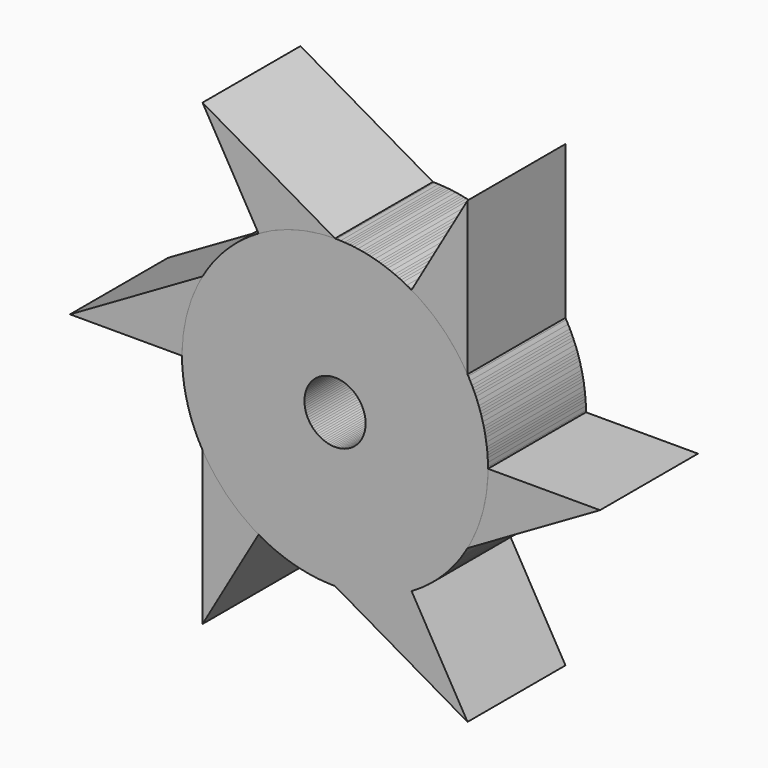
from build123d import *

# Parameters (mm, degrees)
F0_R          = 63.5
F0_R_2        = 12.7
F1_DEPTH      = 25.4
F1_DEPTH_BACK = 25.4
F3_DEPTH      = 25.4
F3_DEPTH_BACK = 25.4
F4_COUNT      = 6


with BuildPart() as f1:
    # F0 (on Front) → F1 (new body, two sides)
    with BuildSketch(Plane.XZ) as f1_sk:
        Circle(F0_R)
        Circle(F0_R_2, mode=Mode.SUBTRACT)
    extrude(amount=F1_DEPTH)
    extrude(f1_sk.sketch, amount=-F1_DEPTH_BACK)

    # F2 (on Front) → F3 (join, two sides)
    with BuildSketch(Plane.XZ) as f3_sk:
        Polygon((109.985226, 0), (63.5, 0), (54.992613, -31.75), align=None)
    extrude(amount=F3_DEPTH)
    extrude(f3_sk.sketch, amount=-F3_DEPTH_BACK)


with BuildPart() as f4_1:
    # F4: instance of F1
    add(f1.part.rotate(Axis((0, -25.4, 0), (0, -1, 0)), 1 * 360 / F4_COUNT))


with BuildPart() as f4_2:
    # F4: instance of F1
    add(f1.part.rotate(Axis((0, -25.4, 0), (0, -1, 0)), 2 * 360 / F4_COUNT))


with BuildPart() as f4_3:
    # F4: instance of F1
    add(f1.part.rotate(Axis((0, -25.4, 0), (0, -1, 0)), 3 * 360 / F4_COUNT))


with BuildPart() as f4_4:
    # F4: instance of F1
    add(f1.part.rotate(Axis((0, -25.4, 0), (0, -1, 0)), 4 * 360 / F4_COUNT))


with BuildPart() as f4_5:
    # F4: instance of F1
    add(f1.part.rotate(Axis((0, -25.4, 0), (0, -1, 0)), 5 * 360 / F4_COUNT))


solid = Compound([f1.part, f4_1.part, f4_2.part, f4_3.part, f4_4.part, f4_5.part])
